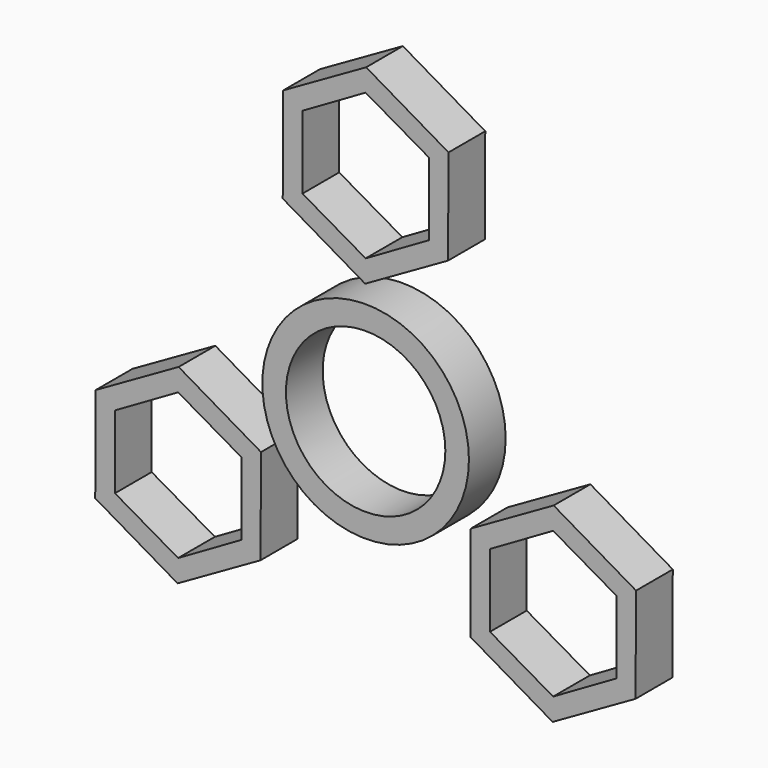
from build123d import *

# Parameters (mm, degrees)
F0_R     = 14.2875
F0_R_2   = 11.0236
F2_DEPTH = 6.35


with BuildPart() as f2:
    # F1 (on Front) + F0 (on Front) → F2 (new body)
    with BuildSketch(Plane.XZ):
        Polygon((0.069153, 43.142528), (-11.395267, 36.603393), (-11.46442, 23.405347), (-0.069153, 16.746436), (11.395267, 23.285571), (11.46442, 36.483617), align=None)
        Polygon((0, 19.855171), (-8.7376, 24.899827), (-8.7376, 34.989138), (0, 40.033794), (8.7376, 34.989138), (8.7376, 24.899827), align=None, mode=Mode.SUBTRACT)
        Polygon((25.863529, -28.170287), (37.327949, -21.631152), (37.397102, -8.433106), (26.001835, -1.774195), (14.537416, -8.31333), (14.468263, -21.511376), align=None)
        Polygon((17.195082, -20.016897), (17.195082, -9.927585), (25.932682, -4.88293), (34.670282, -9.927585), (34.670282, -20.016897), (25.932682, -25.061553), align=None, mode=Mode.SUBTRACT)
        Polygon((-37.327949, -8.31333), (-37.397102, -21.511376), (-26.001835, -28.170287), (-14.537416, -21.631152), (-14.468263, -8.433106), (-25.863529, -1.774195), align=None)
        Polygon((-25.932682, -4.88293), (-17.195082, -9.927585), (-17.195082, -20.016897), (-25.932682, -25.061553), (-34.670282, -20.016897), (-34.670282, -9.927585), align=None, mode=Mode.SUBTRACT)
    with BuildSketch(Plane.XZ):
        Circle(F0_R)
        Circle(F0_R_2, mode=Mode.SUBTRACT)
    extrude(amount=F2_DEPTH)


solid = f2.part
